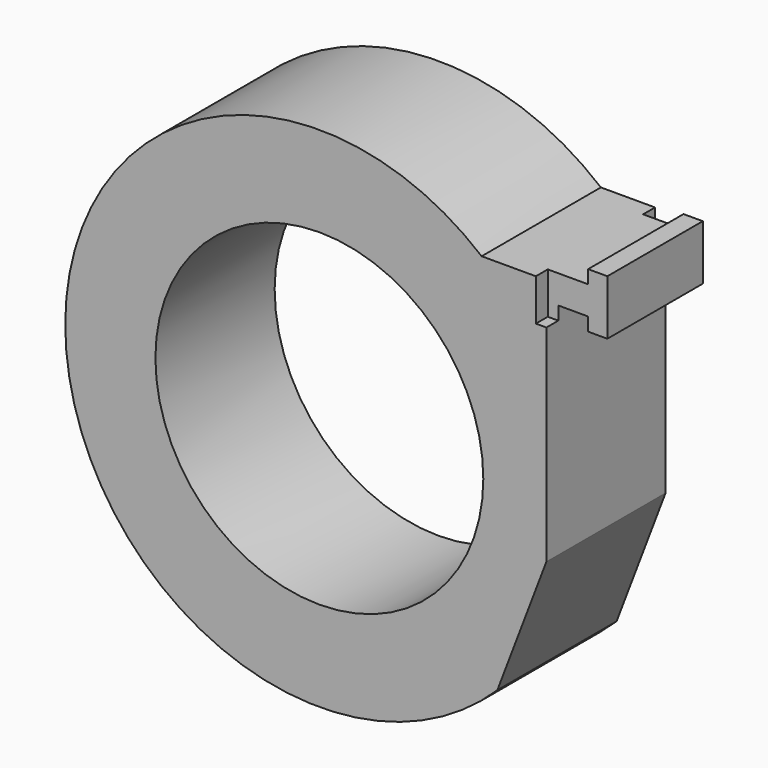
from build123d import *

# Parameters (mm, degrees)
F0_R     = 11
F1_DEPTH = 10
F2_W     = 1
F2_H     = 3.693367015
F3_DEPTH = 4


with BuildPart() as f1:
    # F0 (on Front) → F1 (new body)
    with BuildSketch(Plane.XZ):
        with BuildLine():
            Line((-3.0604514879, 9.8880870564), (-7.4054963655, 9.8880870564))
            ThreePointArc((-7.4054963655, 9.8880870564), (-35.3291650939, -3.9419436711), (-6.351978263, -15.4015976163))
            Line((-6.351978263, -15.4015976163), (-3.0604514879, -6.7412075195))
            Line((-3.0604514879, -6.7412075195), (-3.0604514879, 3.9817849485))
            Line((-3.0604514879, 3.9817849485), (-3.0604514879, 7.9859482356))
            Line((-3.0604514879, 7.9859482356), (-3.0604514879, 9.8880870564))
        make_face()
        with Locations((-18.2939400691, -3.2322899852)):
            Circle(F0_R, mode=Mode.SUBTRACT)
        Polygon((-1.0604514879, 9.8880870564), (-3.0604514879, 9.8880870564), (-3.0604514879, 7.9859482356), (-1.0604514879, 7.9859482356), (-1.0604514879, 7.0903341385), (0.2310752873, 7.0903341385), (0.2310752873, 10.7837011535), (-1.0604514879, 10.7837011535), align=None)
    extrude(amount=F1_DEPTH)

    # F2 (on face) → F3 (cut)
    with BuildSketch(Plane.YZ.offset(0.2310752873)):
        with Locations((-9.5, 8.937017646)):
            Rectangle(F2_W, F2_H)
        with Locations((-0.5, 8.937017646)):
            Rectangle(F2_W, F2_H)
    extrude(amount=-F3_DEPTH, mode=Mode.SUBTRACT)


solid = f1.part
